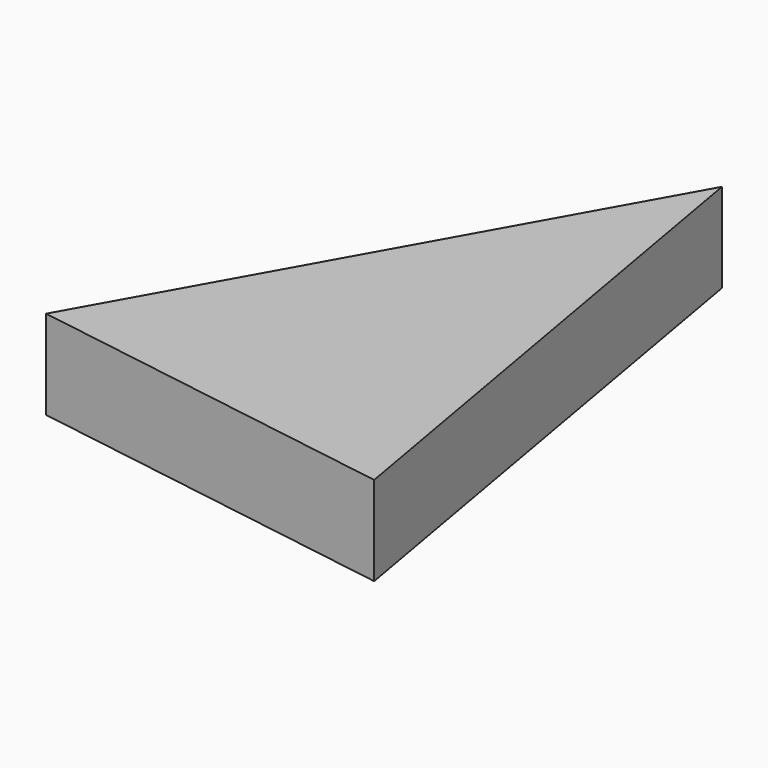
from build123d import *

# Parameters (mm, degrees)
F2_DEPTH = 10.096978


with BuildPart() as f2:
    # F1 (on face) → F2 (new body)
    with BuildSketch(Plane.XY):
        Polygon((-23.128886, -63.045911), (-34.18573, 0), (-65.67131, -56.304842), align=None)
    extrude(amount=F2_DEPTH)


solid = f2.part
